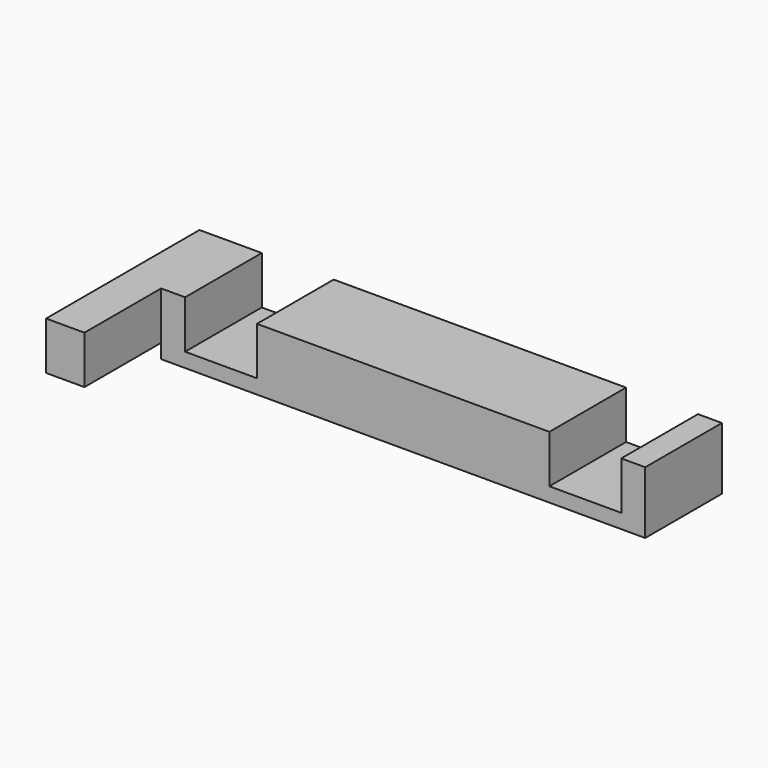
from build123d import *

# Parameters (mm, degrees)
SKETCH_W     = 101
SKETCH_H     = 20
PAD_DEPTH    = 13
SKETCH001_W  = 15
SKETCH001_H  = 20
POCKET_DEPTH = 10
SKETCH002_W  = 20
SKETCH002_H  = 10
PAD001_DEPTH = 8
SKETCH003_W  = 8
SKETCH003_H  = 10
PAD002_DEPTH = 20


with BuildPart() as part:
    # Sketch → Pad (new body)
    with BuildSketch(Plane.XY):
        with Locations((50.5, 10)):
            Rectangle(SKETCH_W, SKETCH_H)
    extrude(amount=PAD_DEPTH)

    # Sketch001 (on Face6 of Pad) → Pocket (cut)
    with BuildSketch(Plane.XY.offset(13)):
        with Locations((12.5, 10)):
            Rectangle(SKETCH001_W, SKETCH001_H)
        with Locations((88.5, 10)):
            Rectangle(SKETCH001_W, SKETCH001_H)
    extrude(amount=-POCKET_DEPTH, mode=Mode.SUBTRACT)

    # Sketch002 (on Face13 of Pocket) → Pad001 (join)
    with BuildSketch(Plane(origin=(0, 0, 0), x_dir=(0, -1, 0), z_dir=(-1, 0, 0))):
        with Locations((-10, 8)):
            Rectangle(SKETCH002_W, SKETCH002_H)
    extrude(amount=PAD001_DEPTH)

    # Sketch003 (on Face14 of Pad001) → Pad002 (join)
    with BuildSketch(Plane.XZ):
        with Locations((-4, 8)):
            Rectangle(SKETCH003_W, SKETCH003_H)
    extrude(amount=PAD002_DEPTH)


solid = part.part
